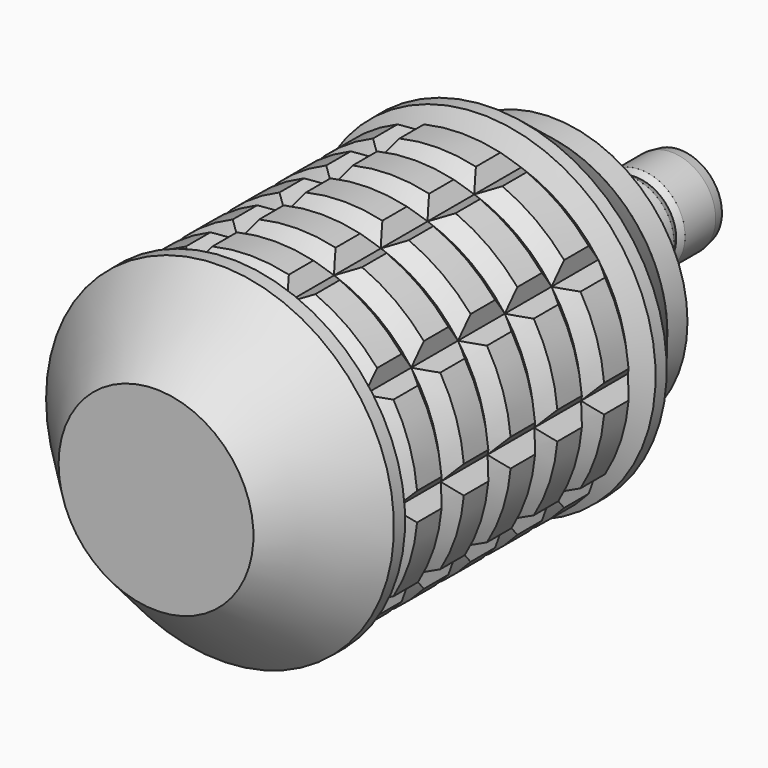
from build123d import *

# Parameters (mm, degrees)
F1_DEPTH  = 21
F7_R      = 15
F8_DEPTH  = 55
F13_DEPTH = 1.1
F19_DEPTH = 12.5


with BuildPart() as f1:
    # F0 (on Front) → F1 (new body, symmetric)
    with BuildSketch(Plane.XZ):
        with BuildLine():
            Line((-6.8601772751, 21.1134546618), (-9.2911176243, 22.1286044135))
            ThreePointArc((-9.2911176243, 22.1286044135), (-14.106846055, 19.416407865), (-18.1744401813, 15.6744927859))
            Line((-18.1744401813, 15.6744927859), (-17.9601772751, 13.0488326009))
            Line((-17.9601772751, 13.0488326009), (-20.5235393829, 12.4412351154))
            ThreePointArc((-20.5235393829, 12.4412351154), (-22.8253563911, 7.416407865), (-23.9166666667, 1.9982631347))
            Line((-23.9166666667, 1.9982631347), (-22.2, 0))
            Line((-22.2, 0), (-23.9166666667, -1.9982631347))
            ThreePointArc((-23.9166666667, -1.9982631347), (-22.8253563911, -7.416407865), (-20.5235393829, -12.4412351154))
            Line((-20.5235393829, -12.4412351154), (-17.9601772751, -13.0488326009))
            Line((-17.9601772751, -13.0488326009), (-18.1744401813, -15.6744927859))
            ThreePointArc((-18.1744401813, -15.6744927859), (-14.106846055, -19.416407865), (-9.2911176243, -22.1286044135))
            Line((-9.2911176243, -22.1286044135), (-6.8601772751, -21.1134546618))
            Line((-6.8601772751, -21.1134546618), (-5.4901952733, -23.3635989493))
            ThreePointArc((-5.4901952733, -23.3635989493), (0, -24), (5.4901952733, -23.3635989493))
            Line((5.4901952733, -23.3635989493), (6.8601772751, -21.1134546618))
            Line((6.8601772751, -21.1134546618), (9.2911176243, -22.1286044135))
            ThreePointArc((9.2911176243, -22.1286044135), (14.106846055, -19.416407865), (18.1744401813, -15.6744927859))
            Line((18.1744401813, -15.6744927859), (17.9601772751, -13.0488326009))
            Line((17.9601772751, -13.0488326009), (20.5235393829, -12.4412351154))
            ThreePointArc((20.5235393829, -12.4412351154), (22.8253563911, -7.416407865), (23.9166666667, -1.9982631347))
            Line((23.9166666667, -1.9982631347), (22.2, 0))
            Line((22.2, 0), (23.9166666667, 1.9982631347))
            ThreePointArc((23.9166666667, 1.9982631347), (22.8253563911, 7.416407865), (20.5235393829, 12.4412351154))
            Line((20.5235393829, 12.4412351154), (17.9601772751, 13.0488326009))
            Line((17.9601772751, 13.0488326009), (18.1744401813, 15.6744927859))
            ThreePointArc((18.1744401813, 15.6744927859), (14.106846055, 19.416407865), (9.2911176243, 22.1286044135))
            Line((9.2911176243, 22.1286044135), (6.8601772751, 21.1134546618))
            Line((6.8601772751, 21.1134546618), (5.4901952733, 23.3635989493))
            ThreePointArc((5.4901952733, 23.3635989493), (0, 24), (-5.4901952733, 23.3635989493))
            Line((-5.4901952733, 23.3635989493), (-6.8601772751, 21.1134546618))
        make_face()
    extrude(amount=F1_DEPTH, both=True)

    # F2 (on Right) → F3 (revolve, cut)
    with BuildSketch(Plane.YZ):
        Polygon((-21, 27.2440668195), (-21, 24), (-21, 22.2), (-19, 24), (-14.6, 24), (-12.6, 22.2), (-10.6, 24), (-6.2, 24), (-4.2, 22.2), (-2.2, 24), (2.2, 24), (4.2, 22.2), (6.2, 24), (10.6, 24), (12.6, 22.2), (14.6, 24), (19, 24), (21, 22.2), (21, 27.2440668195), (12.6, 27.2440668195), (4.2, 27.2440668195), (-4.2, 27.2440668195), (-12.6, 27.2440668195), align=None)
    revolve(axis=Axis((0, 30.5947866291, 0), (0, 1, 0)), mode=Mode.SUBTRACT)

    # F4 (on Top) → F5 (revolve)
    with BuildSketch(Plane.XY):
        Polygon((-19.5, 31.5), (-25, 24.5), (-25, 22.5), (-22.2, 21), (0, 21), (0, 31.5), align=None)
        Polygon((-22.2, -21), (-25, -22.5), (-25, -24.5), (-14, -36), (0, -36), (0, -21), align=None)
    revolve(axis=Axis((0, 26.25, 0), (0, -1, 0)))

    # F7 (on offset) → F8 (cut)
    with BuildSketch(Plane(origin=(0, 31.5, 0), x_dir=(-1, 0, 0), z_dir=(0, 1, 0))):
        Circle(F7_R)
    extrude(amount=-F8_DEPTH, mode=Mode.SUBTRACT)


with BuildPart() as f10:
    # F9 (on Top) → F10 (revolve)
    with BuildSketch(Plane.XY):
        Polygon((14.5, 25.5), (14.5, 31.5), (19.5, 31.5), (19.5, 35.1), (6.75, 35.1), (6.75, 29.1), (5, 29.1), (5, 25.5), align=None)
    revolve(axis=Axis((0, 53.486485976, 0), (0, 1, 0)))

    # F12 (on offset) → F13 (cut)
    with BuildSketch(Plane(origin=(0, 35.1, 0), x_dir=(-1, 0, 0), z_dir=(0, 1, 0))):
        with BuildLine():
            Line((-1.5, 9.65), (-1.4721649485, 9.937628866))
            ThreePointArc((-1.4721649485, 9.937628866), (-1.4930250203, 9.7944862923), (-1.5, 9.65))
        make_face()
        with BuildLine():
            Line((-0.75, 17.4), (-1.4721649485, 9.937628866))
            Line((-1.4721649485, 9.937628866), (-1.5, 9.65))
            ThreePointArc((-1.5, 9.65), (0, 8.15), (1.5, 9.65))
            Line((1.5, 9.65), (1.4721649485, 9.937628866))
            Line((1.4721649485, 9.937628866), (0.75, 17.4))
            ThreePointArc((0.75, 17.4), (0, 18.15), (-0.75, 17.4))
        make_face()
        with BuildLine():
            Line((1.4721649485, 9.937628866), (1.5, 9.65))
            ThreePointArc((1.5, 9.65), (1.4930250203, 9.7944862923), (1.4721649485, 9.937628866))
        make_face()
        with BuildLine():
            Line((7.5155284828, 6.6663759823), (11.7590377409, 12.847082603))
            ThreePointArc((11.7590377409, 12.847082603), (11.6665951158, 13.9037066426), (10.6099710762, 13.8112640175))
            Line((10.6099710762, 13.8112640175), (5.2600409266, 8.5589547588))
            Line((5.2600409266, 8.5589547588), (5.0538337688, 8.3565102906))
            ThreePointArc((5.0538337688, 8.3565102906), (5.2387190189, 6.2432622114), (7.3519670982, 6.4281474616))
            Line((7.3519670982, 6.4281474616), (7.5155284828, 6.6663759823))
        make_face()
        with BuildLine():
            ThreePointArc((7.3519670982, 6.4281474616), (7.4394979522, 6.5433138134), (7.5155284828, 6.6663759823))
            Line((7.5155284828, 6.6663759823), (7.3519670982, 6.4281474616))
        make_face()
        with BuildLine():
            Line((5.0538337688, 8.3565102906), (5.2600409266, 8.5589547588))
            ThreePointArc((5.2600409266, 8.5589547588), (5.1520509117, 8.4627097814), (5.0538337688, 8.3565102906))
        make_face()
        with BuildLine():
            Line((10.0422927143, 0.275851688), (17.2658910357, 2.2828724766))
            ThreePointArc((17.2658910357, 2.2828724766), (17.8742607172, 3.1517144247), (17.0054187692, 3.7600841062))
            Line((17.0054187692, 3.7600841062), (9.5310151933, 3.1754505979))
            Line((9.5310151933, 3.1754505979), (9.2429225501, 3.152916544))
            ThreePointArc((9.2429225501, 3.152916544), (8.026183187, 1.415232648), (9.7638670831, 0.198493285))
            Line((9.7638670831, 0.198493285), (10.0422927143, 0.275851688))
        make_face()
        with BuildLine():
            ThreePointArc((9.7638670831, 0.198493285), (9.9049471114, 0.2304520804), (10.0422927143, 0.275851688))
            Line((10.0422927143, 0.275851688), (9.7638670831, 0.198493285))
        make_face()
        with BuildLine():
            Line((9.2429225501, 3.152916544), (9.5310151933, 3.1754505979))
            ThreePointArc((9.5310151933, 3.1754505979), (9.3864249634, 3.1711373113), (9.2429225501, 3.152916544))
        make_face()
        with BuildLine():
            Line((7.8701565771, -6.2437466769), (14.6938420258, -9.3495190528))
            ThreePointArc((14.6938420258, -9.3495190528), (15.7183610787, -9.075), (15.4438420258, -8.0504809472))
            Line((15.4438420258, -8.0504809472), (9.3423215255, -3.6938821891))
            Line((9.3423215255, -3.6938821891), (9.1071451465, -3.5259618943))
            ThreePointArc((9.1071451465, -3.5259618943), (7.0581070408, -4.075), (7.6071451465, -6.1240381057))
            Line((7.6071451465, -6.1240381057), (7.8701565771, -6.2437466769))
        make_face()
        with BuildLine():
            ThreePointArc((7.6071451465, -6.1240381057), (7.735761436, -6.1902407422), (7.8701565771, -6.2437466769))
            Line((7.8701565771, -6.2437466769), (7.6071451465, -6.1240381057))
        make_face()
        with BuildLine():
            Line((9.1071451465, -3.5259618943), (9.3423215255, -3.6938821891))
            ThreePointArc((9.3423215255, -3.6938821891), (9.2287864563, -3.6042455501), (9.1071451465, -3.5259618943))
        make_face()
        with BuildLine():
            Line((2.0154867104, -9.8418265801), (5.2463810283, -16.6071667092))
            ThreePointArc((5.2463810283, -16.6071667092), (6.2076656014, -17.0554210673), (6.6559199595, -16.0941364942))
            Line((6.6559199595, -16.0941364942), (4.7822517877, -8.8348064468))
            Line((4.7822517877, -8.8348064468), (4.7100333143, -8.5550035756))
            ThreePointArc((4.7100333143, -8.5550035756), (2.7874641681, -7.6584948594), (1.8909554519, -9.5810640056))
            Line((1.8909554519, -9.5810640056), (2.0154867104, -9.8418265801))
        make_face()
        with BuildLine():
            ThreePointArc((1.8909554519, -9.5810640056), (1.9469270112, -9.7144511247), (2.0154867104, -9.8418265801))
            Line((2.0154867104, -9.8418265801), (1.8909554519, -9.5810640056))
        make_face()
        with BuildLine():
            Line((4.7100333143, -8.5550035756), (4.7822517877, -8.8348064468))
            ThreePointArc((4.7822517877, -8.8348064468), (4.7528961997, -8.6931618618), (4.7100333143, -8.5550035756))
        make_face()
        with BuildLine():
            Line((-4.7822517877, -8.8348064468), (-6.6559199595, -16.0941364942))
            ThreePointArc((-6.6559199595, -16.0941364942), (-6.2076656014, -17.0554210673), (-5.2463810283, -16.6071667092))
            Line((-5.2463810283, -16.6071667092), (-2.0154867104, -9.8418265801))
            Line((-2.0154867104, -9.8418265801), (-1.8909554519, -9.5810640056))
            ThreePointArc((-1.8909554519, -9.5810640056), (-2.7874641681, -7.6584948594), (-4.7100333143, -8.5550035756))
            Line((-4.7100333143, -8.5550035756), (-4.7822517877, -8.8348064468))
        make_face()
        with BuildLine():
            ThreePointArc((-4.7100333143, -8.5550035756), (-4.7528961997, -8.6931618618), (-4.7822517877, -8.8348064468))
            Line((-4.7822517877, -8.8348064468), (-4.7100333143, -8.5550035756))
        make_face()
        with BuildLine():
            Line((-1.8909554519, -9.5810640056), (-2.0154867104, -9.8418265801))
            ThreePointArc((-2.0154867104, -9.8418265801), (-1.9469270112, -9.7144511247), (-1.8909554519, -9.5810640056))
        make_face()
        with BuildLine():
            Line((-9.3423215255, -3.6938821891), (-15.4438420258, -8.0504809472))
            ThreePointArc((-15.4438420258, -8.0504809472), (-15.7183610787, -9.075), (-14.6938420258, -9.3495190528))
            Line((-14.6938420258, -9.3495190528), (-7.8701565771, -6.2437466769))
            Line((-7.8701565771, -6.2437466769), (-7.6071451465, -6.1240381057))
            ThreePointArc((-7.6071451465, -6.1240381057), (-7.0581070408, -4.075), (-9.1071451465, -3.5259618943))
            Line((-9.1071451465, -3.5259618943), (-9.3423215255, -3.6938821891))
        make_face()
        with BuildLine():
            ThreePointArc((-9.1071451465, -3.5259618943), (-9.2287864563, -3.6042455501), (-9.3423215255, -3.6938821891))
            Line((-9.3423215255, -3.6938821891), (-9.1071451465, -3.5259618943))
        make_face()
        with BuildLine():
            Line((-7.6071451465, -6.1240381057), (-7.8701565771, -6.2437466769))
            ThreePointArc((-7.8701565771, -6.2437466769), (-7.735761436, -6.1902407422), (-7.6071451465, -6.1240381057))
        make_face()
        with BuildLine():
            Line((-9.5310151933, 3.1754505979), (-17.0054187692, 3.7600841062))
            ThreePointArc((-17.0054187692, 3.7600841062), (-17.8742607172, 3.1517144247), (-17.2658910357, 2.2828724766))
            Line((-17.2658910357, 2.2828724766), (-10.0422927143, 0.275851688))
            Line((-10.0422927143, 0.275851688), (-9.7638670831, 0.198493285))
            ThreePointArc((-9.7638670831, 0.198493285), (-8.026183187, 1.415232648), (-9.2429225501, 3.152916544))
            Line((-9.2429225501, 3.152916544), (-9.5310151933, 3.1754505979))
        make_face()
        with BuildLine():
            ThreePointArc((-9.2429225501, 3.152916544), (-9.3864249634, 3.1711373113), (-9.5310151933, 3.1754505979))
            Line((-9.5310151933, 3.1754505979), (-9.2429225501, 3.152916544))
        make_face()
        with BuildLine():
            Line((-9.7638670831, 0.198493285), (-10.0422927143, 0.275851688))
            ThreePointArc((-10.0422927143, 0.275851688), (-9.9049471114, 0.2304520804), (-9.7638670831, 0.198493285))
        make_face()
        with BuildLine():
            Line((-5.2600409266, 8.5589547588), (-10.6099710762, 13.8112640175))
            ThreePointArc((-10.6099710762, 13.8112640175), (-11.6665951158, 13.9037066426), (-11.7590377409, 12.847082603))
            Line((-11.7590377409, 12.847082603), (-7.5155284828, 6.6663759823))
            Line((-7.5155284828, 6.6663759823), (-7.3519670982, 6.4281474616))
            ThreePointArc((-7.3519670982, 6.4281474616), (-5.2387190189, 6.2432622114), (-5.0538337688, 8.3565102906))
            Line((-5.0538337688, 8.3565102906), (-5.2600409266, 8.5589547588))
        make_face()
        with BuildLine():
            ThreePointArc((-5.0538337688, 8.3565102906), (-5.1520509117, 8.4627097814), (-5.2600409266, 8.5589547588))
            Line((-5.2600409266, 8.5589547588), (-5.0538337688, 8.3565102906))
        make_face()
        with BuildLine():
            Line((-7.3519670982, 6.4281474616), (-7.5155284828, 6.6663759823))
            ThreePointArc((-7.5155284828, 6.6663759823), (-7.4394979522, 6.5433138134), (-7.3519670982, 6.4281474616))
        make_face()
    extrude(amount=-F13_DEPTH, mode=Mode.SUBTRACT)


with BuildPart() as f15:
    # F14 (on Right) → F15 (revolve)
    with BuildSketch(Plane.YZ):
        Polygon((29.1, -6.35), (35.1, -6.35), (35.1, 0), (2.1, 0), (2.1, -4.35), (25.5, -4.35), (29.1, -4.35), align=None)
        Polygon((35.1, 0), (35.1, -6.35), (49.1, -6.35), (50.1, -5.8735432103), (50.1, -4.85), (45.1, -4.85), (45.1, -1.5), (39.1, -1.5), (39.1, 0), align=None)
        Polygon((50.1, -4.85), (50.1, -5.8735432103), (51.1, -6.35), (56.6, -6.35), (58.1, -6.05), (58.1, -4.85), align=None)
    revolve(axis=Axis((0, 52.1049724251, 0), (0, -1, 0)))


with BuildPart() as f17:
    # F16 (on Right) → F17 (revolve)
    with BuildSketch(Plane.YZ):
        Polygon((42.2413945198, 0), (45.6, -1.2803227874), (45.6, -4.65), (47.3136119545, -4.65), (47.3136119545, -3.1737706289), (50.3136119545, -3.1737706289), (50.3136119545, -4.65), (55.1136119545, -4.65), (58.1, -3.75), (58.1, -1.75), (53.9, -1.75), (53.9, 0), (45.6, 0), align=None)
    revolve(axis=Axis((0, 25.0005507842, 0), (0, -1, 0)))

    # F18 (on Right) → F19 (cut, symmetric)
    with BuildSketch(Plane.YZ):
        Polygon((53.9, 1.75), (53.9, -1.75), (61.0352270305, -1.75), (61.0352270305, 1.75), (58.1, 1.75), align=None)
    extrude(amount=F19_DEPTH, both=True, mode=Mode.SUBTRACT)


solid = Compound([f1.part, f10.part, f15.part, f17.part])
